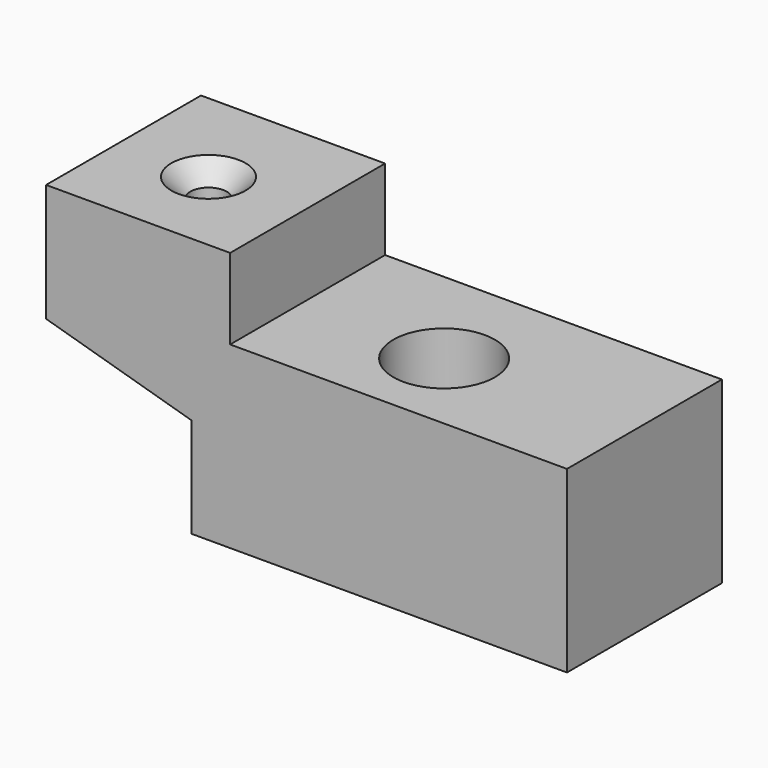
from build123d import *

# Parameters (mm, degrees)
F1_DEPTH       = 29.21
F2_R           = 7.6633678856
F3_DEPTH       = 41.402
F5_D           = 5.5
F5_CSINK_D     = 11.2
F5_CSINK_ANGLE = 90


with BuildPart() as f1:
    # F0 (on Front) → F1 (new body)
    with BuildSketch(Plane.XZ):
        Polygon((-42.0007146895, 25.8535724133), (-42.0007146895, 8.0735711381), (-20.0478583574, 1.7235714477), (-20.0478583574, -13.3350007236), (36.5578569472, -13.3350007236), (36.5578569472, 13.6978570372), (-14.2421433702, 13.6978570372), (-14.2421433702, 25.8535724133), align=None)
    extrude(amount=F1_DEPTH)

    # F2 (on face) → F3 (cut)
    with BuildSketch(Plane.XY.offset(13.6978570372)):
        with Locations((7.6602338813, -16.2490848452)):
            Circle(F2_R)
    extrude(amount=-F3_DEPTH, mode=Mode.SUBTRACT)

    # F5 (through all)
    with Locations(Plane.XY.offset(25.8535724133)):
        with Locations((-28.3485297114, -15.6557932496)):
            CounterSinkHole(F5_D / 2, F5_CSINK_D / 2, counter_sink_angle=F5_CSINK_ANGLE)


solid = f1.part
